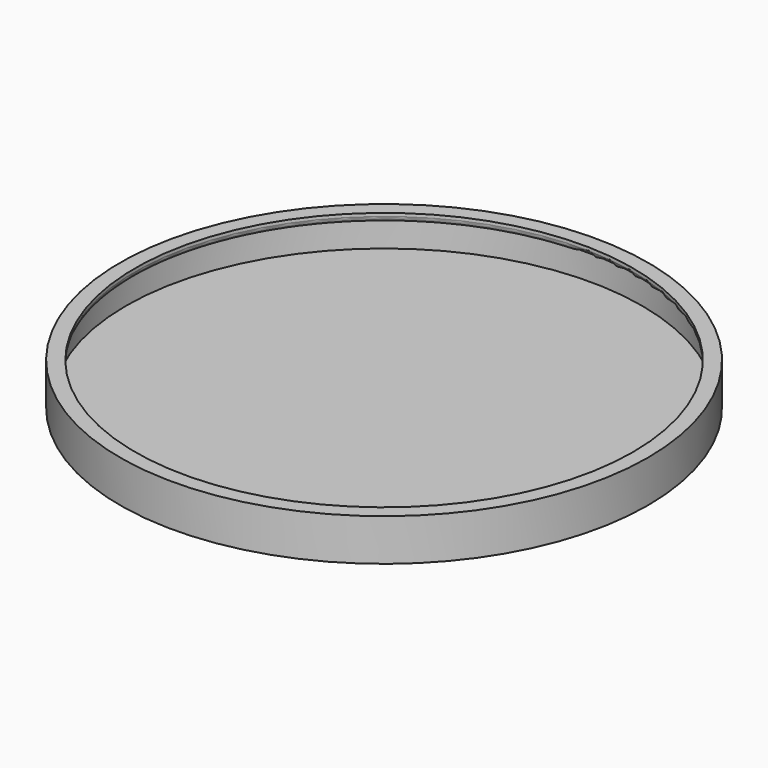
from build123d import *

# Parameters (mm, degrees)
SKETCH006_R     = 44
PAD002_DEPTH    = 7
SKETCH007_R     = 41.5
POCKET004_DEPTH = 6
SKETCH008_R     = 43
POCKET005_DEPTH = 4.5
FILLET002_R     = 1


with BuildPart() as part:
    # Sketch006 → Pad002 (new body)
    with BuildSketch(Plane.XY):
        Circle(SKETCH006_R)
    extrude(amount=PAD002_DEPTH)

    # Sketch007 (on Face3 of Pad002) → Pocket004 (cut)
    with BuildSketch(Plane.XY.offset(7)):
        Circle(SKETCH007_R)
    extrude(amount=-POCKET004_DEPTH, mode=Mode.SUBTRACT)

    # Sketch008 → Pocket005 (cut)
    with BuildSketch(Plane.XY.offset(1)):
        Circle(SKETCH008_R)
    extrude(amount=POCKET005_DEPTH, mode=Mode.SUBTRACT)

    # Fillet002
    fillet002_edges = [part.edges().sort_by_distance(p)[0] for p in [
        (-41.5, 0, 5.5),
    ]]
    fillet(fillet002_edges, radius=FILLET002_R)


solid = part.part
